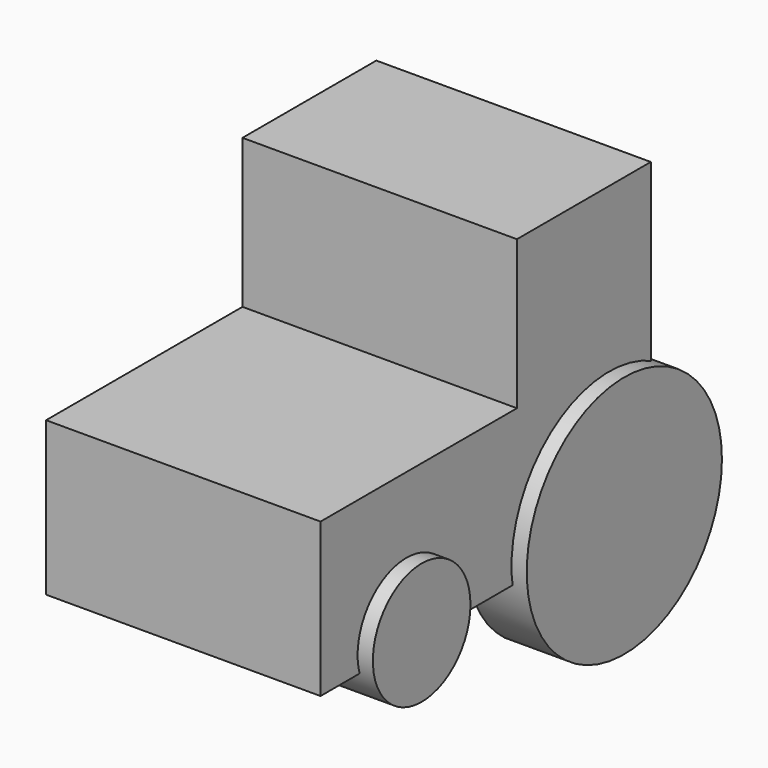
from build123d import *

# Parameters (mm, degrees)
F0_R     = 25.4
F0_R_2   = 50.8
F1_DEPTH = 63.5
F2_R     = 33.275036
F2_R_2   = 69.67622
F3_DEPTH = 38.1
F4_W     = 102.235023
F4_H     = 63.968282
F4_W_2   = 69.679732
F4_H_2   = 61.969269
F5_DEPTH = 57.15


with BuildPart() as f1:
    # F0 (on Right) → F1 (new body, symmetric)
    with BuildSketch(Plane.YZ):
        with Locations((-105.507319, -33.990762)):
            Circle(F0_R)
        with Locations((0, -33.990762)):
            Circle(F0_R_2)
    extrude(amount=F1_DEPTH, both=True)

    # F2 (on Right) → F3 (cut, symmetric)
    with BuildSketch(Plane.YZ):
        with Locations((-106.233031, -35.125438)):
            Circle(F2_R)
        with Locations((0, -38.266737)):
            Circle(F2_R_2)
    extrude(amount=F3_DEPTH, both=True, mode=Mode.SUBTRACT)


with BuildPart() as f5:
    # F4 (on Right) → F5 (new body, symmetric)
    with BuildSketch(Plane.YZ):
        with Locations((-99.093718, -9.138325)):
            Rectangle(F4_W, F4_H)
        with Locations((-13.136341, 53.83045)):
            Rectangle(F4_W_2, F4_H_2)
        with Locations((-13.136341, -9.138325)):
            Rectangle(F4_W_2, F4_H)
    extrude(amount=F5_DEPTH, both=True)


solid = Compound([f1.part, f5.part])
